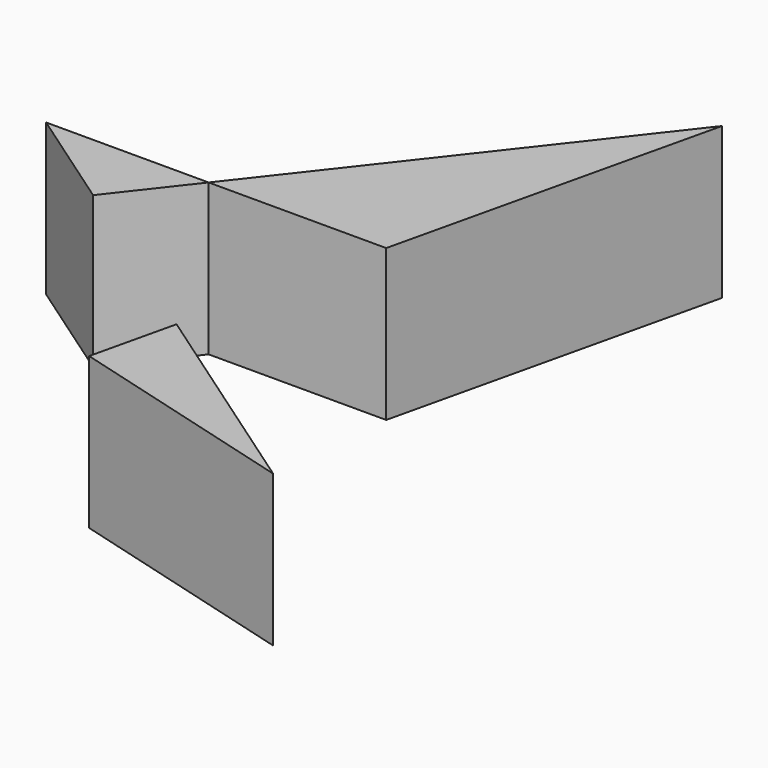
from build123d import *

# Parameters (mm, degrees)
F1_DEPTH = 25.4


with BuildPart() as f1:
    # F0 (on Top) → F1 (new body)
    with BuildSketch(Plane.XY):
        Polygon((46.1199507117, -43.770454824), (9.7432314694, -18.5636266851), (6.4303332797, -32.7676333823), align=None)
    extrude(amount=F1_DEPTH)


with BuildPart() as f1b:
    # F0 (on Top) → F1, piece 2 (new body)
    with BuildSketch(Plane.XY):
        Polygon((-21.6892235965, 3.2171306052), (-12.1204680922, 15.4882743955), (-39.3980741501, 15.4882743955), align=None)
    extrude(amount=F1_DEPTH)


with BuildPart() as f1c:
    # F0 (on Top) → F1, piece 3 (new body)
    with BuildSketch(Plane.XY):
        Polygon((-12.1204680922, 15.4882743955), (17.6853905975, 15.4882743955), (30.4050892591, 70.0238123536), align=None)
    extrude(amount=F1_DEPTH)


solid = Compound([f1.part, f1b.part, f1c.part])
